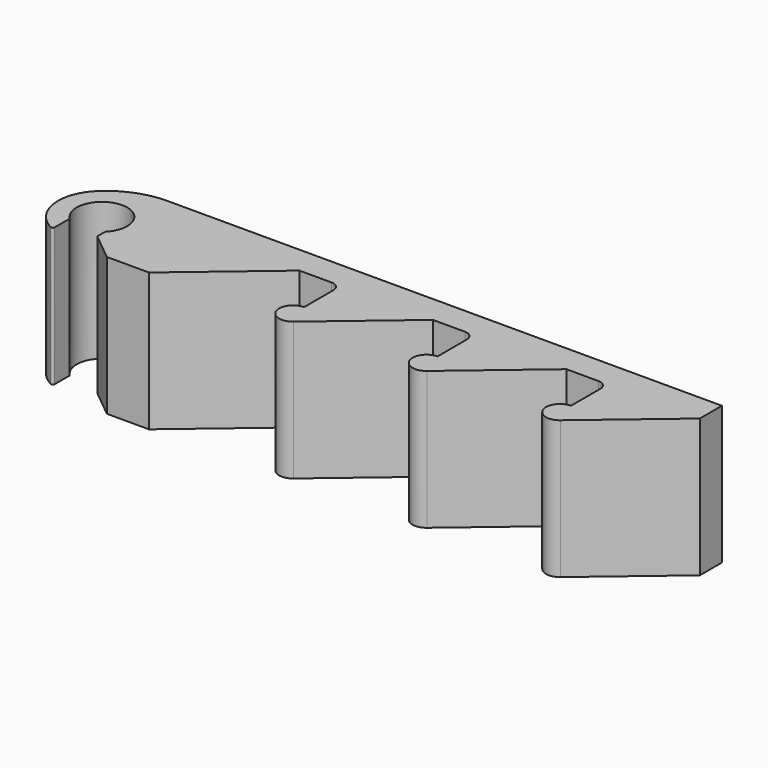
from build123d import *

# Parameters (mm, degrees)
PAD_DEPTH = 15


with BuildPart() as part:
    # Sketch → Pad (new body)
    with BuildSketch(Plane.XY):
        with BuildLine():
            ThreePointArc((1.980932, -1.907461), (0, 2.75), (-1.980932, -1.907461))
            ThreePointArc((-1.925, -2.046185), (-1.939509, -1.971398), (-1.980932, -1.907461))
            Line((-1.925, -2.046185), (-1.925, -4.023292))
            ThreePointArc((-2.218407, -4.20014), (-2.021756, -4.194583), (-1.925, -4.023292))
            ThreePointArc((-3.3, 3.416504), (-4.70282, -0.667819), (-2.218407, -4.20014))
            ThreePointArc((2.474698, 5.75), (-0.639477, 5.144578), (-3.3, 3.416504))
            Line((2.474698, 5.75), (62.75, 5.75))
            Line((62.75, 2.75), (62.75, 5.75))
            Line((62.75, 2.75), (53.719164, -4.894867))
            ThreePointArc((52.75, -2.25), (51.341579, -4.266091), (53.719164, -4.894867))
            Line((52.75, 1.75), (52.75, -2.25))
            ThreePointArc((52.75, 1.75), (52.457107, 2.457107), (51.75, 2.75))
            Line((48.25, 2.75), (51.75, 2.75))
            Line((48.25, 2.75), (39.219164, -4.894867))
            ThreePointArc((38.25, -2.25), (36.841579, -4.266091), (39.219164, -4.894867))
            Line((38.25, 1.75), (38.25, -2.25))
            ThreePointArc((38.25, 1.75), (37.957107, 2.457107), (37.25, 2.75))
            Line((33.75, 2.75), (37.25, 2.75))
            Line((33.75, 2.75), (24.719164, -4.894867))
            ThreePointArc((23.75, -2.25), (22.341579, -4.266091), (24.719164, -4.894867))
            Line((23.75, 1.75), (23.75, -2.25))
            ThreePointArc((23.75, 1.75), (23.457107, 2.457107), (22.75, 2.75))
            Line((19.25, 2.75), (22.75, 2.75))
            Line((9.504324, -5.5), (19.25, 2.75))
            Line((4.925, -5.5), (9.504324, -5.5))
            Line((4.925, -5.5), (1.925, -3.046185))
            Line((1.925, -2.046185), (1.925, -3.046185))
            ThreePointArc((1.980932, -1.907461), (1.939509, -1.971398), (1.925, -2.046185))
        make_face()
    extrude(amount=PAD_DEPTH)


solid = part.part
